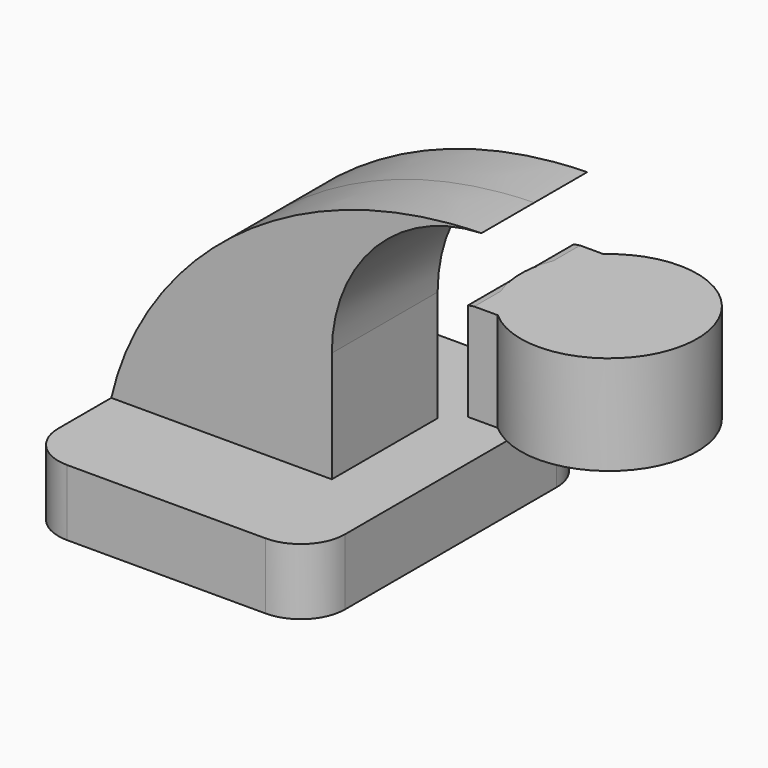
from build123d import *

# Parameters (mm, degrees)
F1_DEPTH = 50.8
F2_DEPTH = 19.05
F0_W     = 25.4
F0_H     = 28.575
F4_R     = 12.7


with BuildPart() as f1:
    # F0 (on Front) → F1 (new body, symmetric)
    with BuildSketch(Plane.XZ):
        Polygon((-41.275, 9.525), (-41.275, -9.525), (41.275, -9.525), (41.275, 9.525), (22.225, 9.525), align=None)
    extrude(amount=F1_DEPTH, both=True)

    # F0 (on Front) → F2 (join, symmetric)
    with BuildSketch(Plane.XZ):
        with BuildLine():
            ThreePointArc((63.247054, 66.675), (62.327, 66.532463), (61.412787, 66.356304))
            Line((61.412787, 66.356304), (61.412787, 38.1))
            Line((61.412787, 38.1), (86.812787, 38.1))
            Line((86.812787, 38.1), (86.812787, 66.675))
            Line((86.812787, 66.675), (63.247054, 66.675))
        make_face()
        with BuildLine():
            add(Edge.make_bspline(
                [(-41.275, 9.525), (-32.496811, 48.148703), (7.801794, 84.771397), (65.310965, 85.936444)],
                knots=[0, 0, 0, 0, 131.233963, 131.233963, 131.233963, 131.233963], degree=3))
            Line((-41.275, 9.525), (22.225, 9.525))
            Line((22.225, 9.525), (22.225, 41.507378))
            ThreePointArc((22.225, 41.507378), (34.765489, 72.452258), (65.310965, 85.936444))
        make_face()
    extrude(amount=F2_DEPTH, both=True)

    # F0 (on Front) → F3 (revolve)
    with BuildSketch(Plane.XZ):
        with Locations((99.512787, 52.3875)):
            Rectangle(F0_W, F0_H)
    revolve(axis=Axis((86.812787, 0, 62.028689), (0, 0, 1)))

    # F4
    f4_edges = [f1.edges().sort_by_distance(p)[0] for p in [
        (-41.275, -50.8, 0),
        (41.275, -50.8, 0),
        (41.275, 50.8, 0),
        (-41.275, 50.8, 0),
    ]]
    fillet(f4_edges, radius=F4_R)


solid = f1.part
